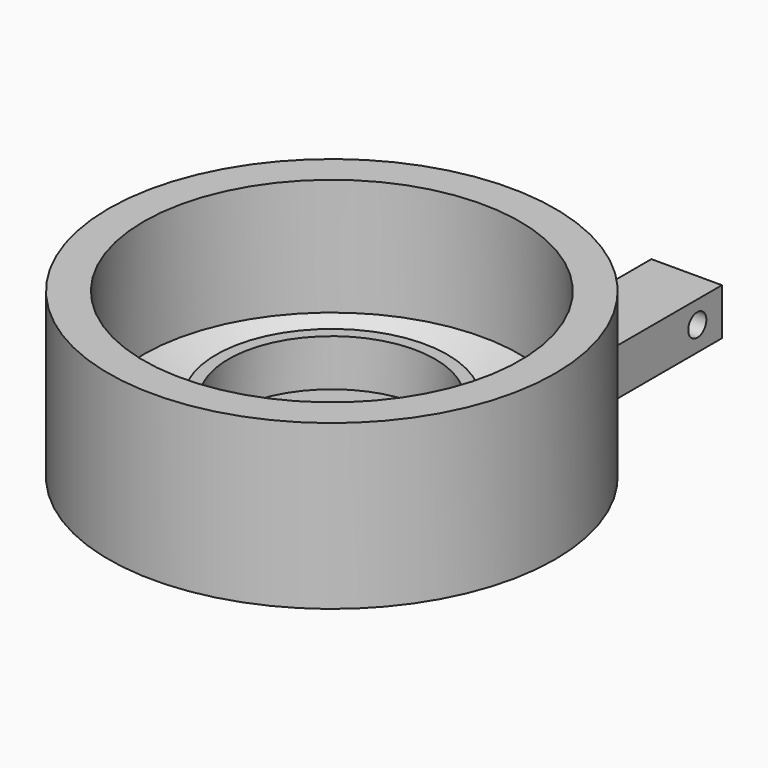
from build123d import *

# Parameters (mm, degrees)
F0_R      = 9.55
F1_DEPTH  = 7
F3_D      = 16.1
F3_DEPTH  = 5
F3_TIP    = 4.8369279832
F4_R      = 4.4218662577
F5_DEPTH  = 1
F6_R      = 4.9450532924
F6_R_2    = 4.4218662577
F7_DEPTH  = 2
F9_DEPTH  = 2
F10_W     = 3.0172600184
F10_H     = 2
F11_DEPTH = 15
F13_R     = 0.4837890582
F14_DEPTH = 25


with BuildPart() as f1:
    # F0 (on Top) → F1 (new body)
    with BuildSketch(Plane.XY):
        Circle(F0_R)
    extrude(amount=F1_DEPTH)

    # F3
    with Locations(Plane.XY.offset(7)):
        with Locations((0, 0)):
            Hole(F3_D / 2, depth=F3_DEPTH)
            with Locations((0, 0, -(F3_DEPTH + F3_TIP / 2))):  # 118° drill point
                Cone(0, F3_D / 2, F3_TIP, mode=Mode.SUBTRACT)


with BuildPart() as f5:
    # F4 (on Top) → F5 (new body)
    with BuildSketch(Plane.XY):
        Circle(F4_R)
    extrude(amount=F5_DEPTH)

    # F8 (on face) → F9 (join)
    with BuildSketch(Plane(origin=(0, 0, 0), x_dir=(1, 0, 0), z_dir=(0, 0, -1))):
        with BuildLine():
            ThreePointArc((-1.5086300092, 0), (0, -1.5086300092), (1.5086300092, 0))
            ThreePointArc((1.5086300092, 0), (0, 1.5086300092), (-1.5086300092, 0))
        make_face()
        with BuildLine():
            Line((1.5086300092, -3.9720046334), (1.5086300092, 0))
            ThreePointArc((1.5086300092, 0), (0, -1.5086300092), (-1.5086300092, 0))
            Line((-1.5086300092, 0), (-1.5086300092, -3.9720046334))
            Line((-1.5086300092, -3.9720046334), (1.5086300092, -3.9720046334))
        make_face()
    extrude(amount=F9_DEPTH)


with BuildPart() as f7:
    # F6 (on face) → F7 (new body)
    with BuildSketch(Plane.XY.offset(1)):
        Circle(F6_R)
        Circle(F6_R_2, mode=Mode.SUBTRACT)
    extrude(amount=F7_DEPTH)


with BuildPart() as f11:
    # F10 (on face) → F11 (new body)
    with BuildSketch(Plane(origin=(0, 3.9720046334, 0), x_dir=(-1, 0, 0), z_dir=(0, 1, 0))):
        with Locations((0, -1)):
            Rectangle(F10_W, F10_H)
    extrude(amount=F11_DEPTH)


with BuildPart() as f5_1:
    add(f5.part)

    # F12: union F11, F7
    add(f11.part)
    add(f7.part)

    # F13 (on face) → F14 (cut)
    with BuildSketch(Plane(origin=(-1.5086300092, 0, 0), x_dir=(0, -1, 0), z_dir=(-1, 0, 0))):
        with Locations((-17.6557358354, -0.9606761741)):
            Circle(F13_R)
    extrude(amount=-F14_DEPTH, mode=Mode.SUBTRACT)


solid = Compound([f1.part, f5_1.part])
